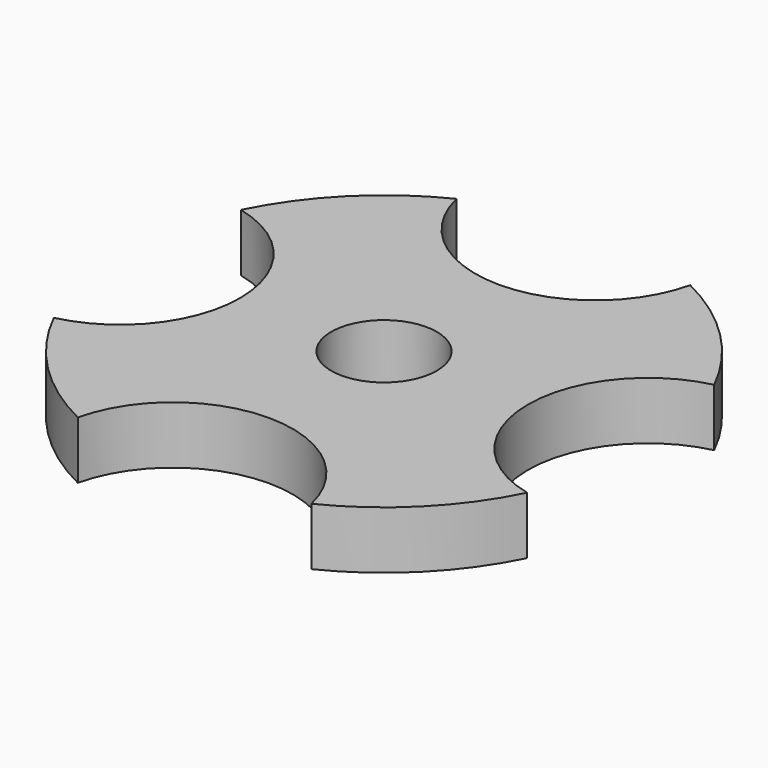
from build123d import *

# Parameters (mm, degrees)
F0_R     = 11
F1_DEPTH = 12


with BuildPart() as f1:
    # F0 (on Top) → F1 (new body)
    with BuildSketch(Plane.XY):
        with BuildLine():
            ThreePointArc((49.318182, -24.345779), (30, 0), (49.318182, 24.345779))
            ThreePointArc((49.318182, 24.345779), (38.890873, 38.890873), (24.345779, 49.318182))
            ThreePointArc((24.345779, 49.318182), (0, 30), (-24.345779, 49.318182))
            ThreePointArc((-24.345779, 49.318182), (-38.890873, 38.890873), (-49.318182, 24.345779))
            ThreePointArc((-49.318182, 24.345779), (-35.416264, 15.539539), (-30, 0))
            ThreePointArc((-30, 0), (-35.416264, -15.539539), (-49.318182, -24.345779))
            ThreePointArc((-49.318182, -24.345779), (-38.890873, -38.890873), (-24.345779, -49.318182))
            ThreePointArc((-24.345779, -49.318182), (0, -30), (24.345779, -49.318182))
            ThreePointArc((24.345779, -49.318182), (38.890873, -38.890873), (49.318182, -24.345779))
        make_face()
        Circle(F0_R, mode=Mode.SUBTRACT)
    extrude(amount=F1_DEPTH)


solid = f1.part
